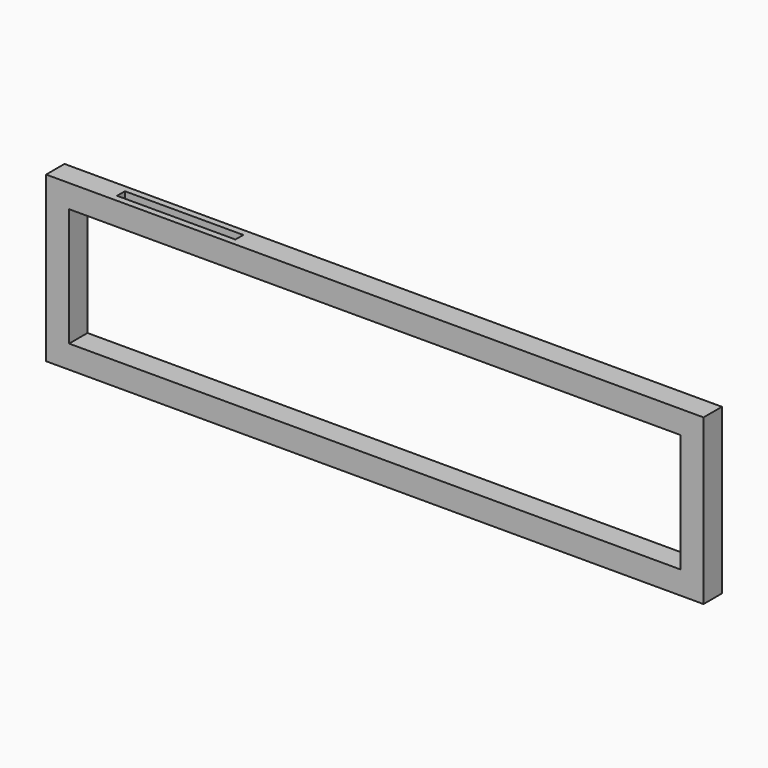
from build123d import *

# Parameters (mm, degrees)
F0_W     = 2000
F0_H     = 500
F0_W_2   = 1860
F0_H_2   = 360
F1_DEPTH = 70
F2_W     = 30
F2_H     = 360
F3_DEPTH = 25
F4_DEPTH = 25
F5_W     = 360
F5_H     = 30
F6_DEPTH = 25


with BuildPart() as f1:
    # F0 (on Front) → F1 (new body)
    with BuildSketch(Plane.XZ):
        with Locations((18.946081, -353.424408)):
            Rectangle(F0_W, F0_H)
        with Locations((18.946081, -353.424408)):
            Rectangle(F0_W_2, F0_H_2, mode=Mode.SUBTRACT)
    extrude(amount=F1_DEPTH)



with BuildPart() as f3:
    # F2 (on face) → F3 (new body)
    with BuildSketch(Plane(origin=(0, 0, 0), x_dir=(-1, 0, 0), z_dir=(0, 1, 0))):
        with Locations((946.053919, -353.424408)):
            Rectangle(F2_W, F2_H)
    extrude(amount=-F3_DEPTH)


with BuildPart() as f1_1:
    add(f1.part)

    add(f3.part)  # F4 merges F3
    # F2 (on face) → F4 (join)
    with BuildSketch(Plane(origin=(0, 0, 0), x_dir=(-1, 0, 0), z_dir=(0, 1, 0))):
        with Locations((-983.946081, -353.424408)):
            Rectangle(F2_W, F2_H)
        with Locations((946.053919, -353.424408)):
            Rectangle(F2_W, F2_H)
    extrude(amount=F4_DEPTH)

    # F5 (on face) → F6 (cut)
    with BuildSketch(Plane.XY.offset(-103.424408)):
        with Locations((-601.053919, -35)):
            Rectangle(F5_W, F5_H)
    extrude(amount=-F6_DEPTH, mode=Mode.SUBTRACT)


solid = f1_1.part
